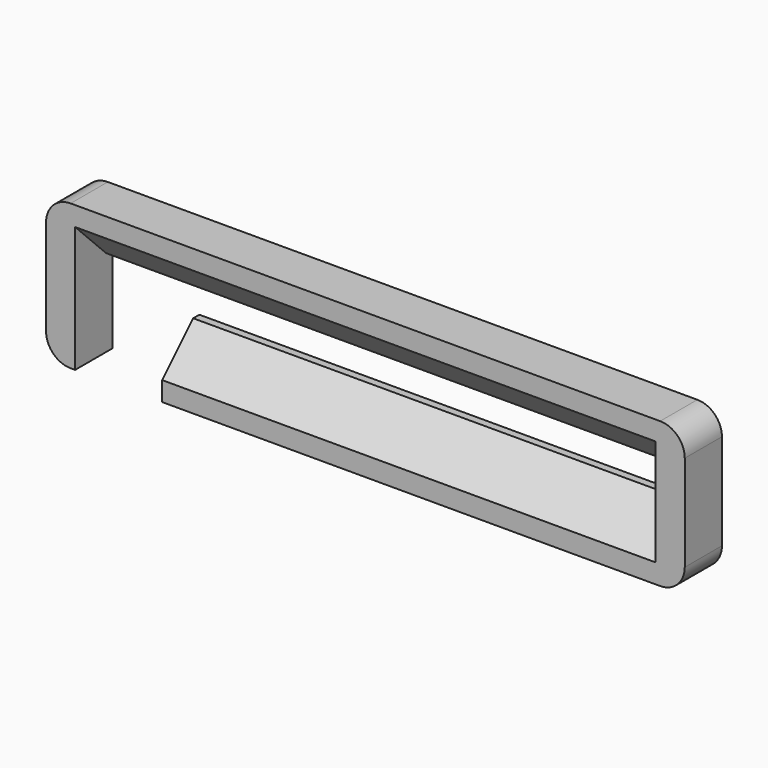
from build123d import *

# Parameters (mm, degrees)
F1_DEPTH = 4.8
F2_SIZE2 = 4
F2_SIZE  = 4


with BuildPart() as f1:
    # F0 (on Front) → F1 (new body)
    with BuildSketch(Plane.XZ):
        with BuildLine():
            ThreePointArc((33, 4.96), (32.256051, 6.756051), (30.46, 7.5))
            Line((30.46, 7.5), (-30.46, 7.5))
            ThreePointArc((-30.46, 7.5), (-32.256051, 6.756051), (-33, 4.96))
            Line((-33, 4.96), (-33, -4.96))
            ThreePointArc((-33, -4.96), (-32.256051, -6.756051), (-30.46, -7.5))
            Line((-30.46, -7.5), (-30, -7.5))
            Line((-30, -7.5), (-30, -1.96))
            Line((-30, -1.96), (-30, -1.5))
            Line((-30, -1.5), (-30, 1.5))
            Line((-30, 1.5), (-30, 1.96))
            ThreePointArc((-30, 1.96), (-29.256051, 3.756051), (-27.46, 4.5))
            Line((-27.46, 4.5), (27.46, 4.5))
            ThreePointArc((27.46, 4.5), (29.256051, 3.756051), (30, 1.96))
            Line((30, 1.96), (30, 1.5))
            Line((30, 1.5), (30, -1.5))
            Line((30, -1.5), (30, -1.96))
            ThreePointArc((30, -1.96), (29.256051, -3.756051), (27.46, -4.5))
            Line((27.46, -4.5), (-21, -4.5))
            Line((-21, -4.5), (-21, -7.5))
            Line((-21, -7.5), (30.46, -7.5))
            ThreePointArc((30.46, -7.5), (32.256051, -6.756051), (33, -4.96))
            Line((33, -4.96), (33, 4.96))
        make_face()
        with BuildLine():
            Line((-21, -1.5), (-21, -4.5))
            Line((-21, -4.5), (27.46, -4.5))
            ThreePointArc((27.46, -4.5), (29.256051, -3.756051), (30, -1.96))
            Line((30, -1.96), (30, -1.5))
            Line((30, -1.5), (-21, -1.5))
        make_face()
        with BuildLine():
            Line((-30, 1.5), (-21, 1.5))
            Line((-21, 1.5), (30, 1.5))
            Line((30, 1.5), (30, 1.96))
            ThreePointArc((30, 1.96), (29.256051, 3.756051), (27.46, 4.5))
            Line((27.46, 4.5), (-27.46, 4.5))
            ThreePointArc((-27.46, 4.5), (-29.256051, 3.756051), (-30, 1.96))
            Line((-30, 1.96), (-30, 1.5))
        make_face()
    extrude(amount=F1_DEPTH)

    # F2
    f2_edges = [f1.edges().sort_by_distance(p)[0] for p in [
        (0, -4.8, 1.5),
        (4.5, -4.8, -1.5),
    ]]
    chamfer(f2_edges, length=F2_SIZE, length2=F2_SIZE2)


solid = f1.part
